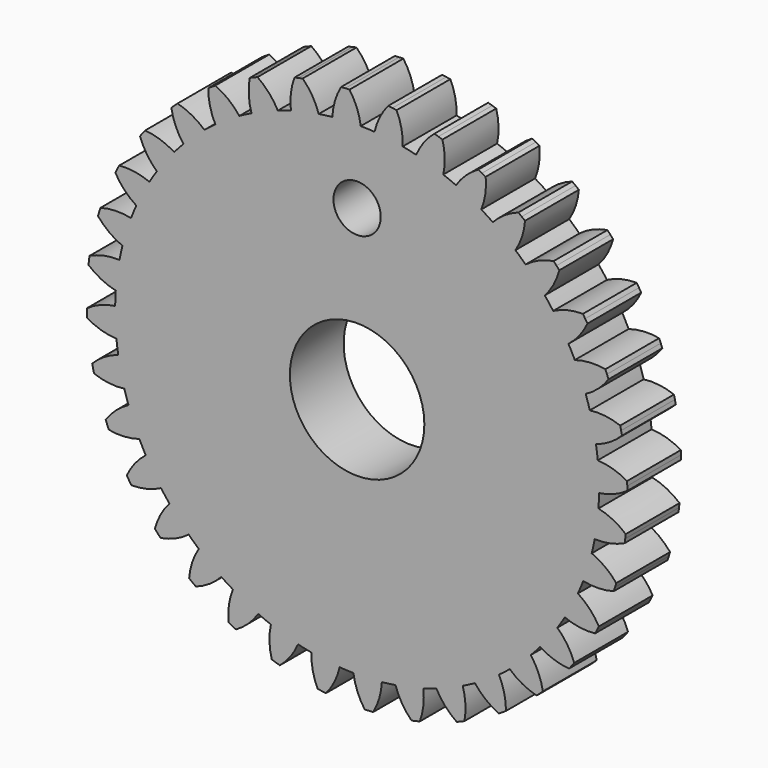
from build123d import *

# Parameters (mm, degrees)
F1_DEPTH = 5
F2_R     = 5
F3_DEPTH = 5.001
F4_R     = 1.757778
F5_DEPTH = 5.001


with BuildPart() as f1:
    # F0 (on Front) → F1 (new body)
    with BuildSketch(Plane.XZ):
        with BuildLine():
            ThreePointArc((1.295607, 17.943286), (0.784713, 17.972878), (0.273183, 17.987926))
            ThreePointArc((0.273183, 17.987926), (-0.017493, 19.09481), (-0.563832, 20.100394))
            ThreePointArc((-0.563832, 20.100394), (-0.720494, 20.095388), (-0.877112, 20.089161))
            ThreePointArc((-0.877112, 20.089161), (-1.033676, 20.081714), (-1.190178, 20.073047))
            ThreePointArc((-1.190178, 20.073047), (-1.646795, 19.023673), (-1.839895, 17.895667))
            ThreePointArc((-1.839895, 17.895667), (-2.348166, 17.836093), (-2.854537, 17.762086))
            ThreePointArc((-2.854537, 17.762086), (-3.333007, 18.801679), (-4.045663, 19.697115))
            ThreePointArc((-4.045663, 19.697115), (-4.199075, 19.664981), (-4.352233, 19.631653))
            ThreePointArc((-4.352233, 19.631653), (-4.505125, 19.597132), (-4.657745, 19.56142))
            ThreePointArc((-4.657745, 19.56142), (-4.925203, 18.448697), (-4.919493, 17.304297))
            ThreePointArc((-4.919493, 17.304297), (-5.409697, 17.157368), (-5.895524, 16.996555))
            ThreePointArc((-5.895524, 16.996555), (-6.547248, 17.937269), (-7.404569, 18.69535))
            ThreePointArc((-7.404569, 18.69535), (-7.55007, 18.637064), (-7.695113, 18.577647))
            ThreePointArc((-7.695113, 18.577647), (-7.839689, 18.5171), (-7.983788, 18.455429))
            ThreePointArc((-7.983788, 18.455429), (-8.053961, 17.313168), (-7.849614, 16.187145))
            ThreePointArc((-7.849614, 16.187145), (-8.306858, 15.957325), (-8.757379, 15.714592))
            ThreePointArc((-8.757379, 15.714592), (-9.562555, 16.527844), (-10.53849, 17.125535))
            ThreePointArc((-10.53849, 17.125535), (-10.67166, 17.04287), (-10.804182, 16.959168))
            ThreePointArc((-10.804182, 16.959168), (-10.936047, 16.874436), (-11.067248, 16.788679))
            ThreePointArc((-11.067248, 16.788679), (-10.938003, 15.651586), (-10.541229, 14.578155))
            ThreePointArc((-10.541229, 14.578155), (-10.951618, 14.272427), (-11.353145, 13.955149))
            ThreePointArc((-11.353145, 13.955149), (-12.287308, 14.616228), (-13.352205, 15.03537))
            ThreePointArc((-13.352205, 15.03537), (-13.468997, 14.930836), (-13.584971, 14.825394))
            ThreePointArc((-13.584971, 14.825394), (-13.700119, 14.719051), (-13.814435, 14.611814))
            ThreePointArc((-13.814435, 14.611814), (-13.4897, 13.514439), (-12.912554, 12.526214))
            ThreePointArc((-12.912554, 12.526214), (-13.263619, 12.153868), (-13.603952, 11.771686))
            ThreePointArc((-13.603952, 11.771686), (-14.638717, 12.260506), (-15.760219, 12.488363))
            ThreePointArc((-15.760219, 12.488363), (-15.857085, 12.365136), (-15.952987, 12.241157))
            ThreePointArc((-15.952987, 12.241157), (-16.04792, 12.116435), (-16.141878, 11.990976))
            ThreePointArc((-16.141878, 11.990976), (-15.631519, 10.966663), (-14.891538, 10.093672))
            ThreePointArc((-14.891538, 10.093672), (-15.172612, 9.66602), (-15.441409, 9.230547))
            ThreePointArc((-15.441409, 9.230547), (-16.545337, 9.532255), (-17.689368, 9.561904))
            ThreePointArc((-17.689368, 9.561904), (-17.763363, 9.423728), (-17.83628, 9.28498))
            ThreePointArc((-17.83628, 9.28498), (-17.908113, 9.145667), (-17.978857, 9.005799))
            ThreePointArc((-17.978857, 9.005799), (-17.298382, 8.08567), (-16.418049, 7.354438))
            ThreePointArc((-16.418049, 7.354438), (-16.620593, 6.884475), (-16.809687, 6.408941))
            ThreePointArc((-16.809687, 6.408941), (-17.949235, 6.514371), (-19.081034, 6.34491))
            ThreePointArc((-19.081034, 6.34491), (-19.129911, 6.195985), (-19.177627, 6.046682))
            ThreePointArc((-19.177627, 6.046682), (-19.224177, 5.897013), (-19.269559, 5.746985))
            ThreePointArc((-19.269559, 5.746985), (-18.439642, 4.958998), (-17.445707, 4.391743))
            ThreePointArc((-17.445707, 4.391743), (-17.563565, 3.893749), (-17.667211, 3.392604))
            ThreePointArc((-17.667211, 3.392604), (-18.807754, 3.298551), (-19.892932, 2.93513))
            ThreePointArc((-19.892932, 2.93513), (-19.915206, 2.77998), (-19.936271, 2.62466))
            ThreePointArc((-19.936271, 2.62466), (-19.956124, 2.469181), (-19.974764, 2.313551))
            ThreePointArc((-19.974764, 2.313551), (-19.020623, 1.681649), (-17.943286, 1.295607))
            ThreePointArc((-17.943286, 1.295607), (-17.972878, 0.784713), (-17.987926, 0.273183))
            ThreePointArc((-17.987926, 0.273183), (-19.09481, -0.017493), (-20.100394, -0.563832))
            ThreePointArc((-20.100394, -0.563832), (-20.095388, -0.720494), (-20.089161, -0.877112))
            ThreePointArc((-20.089161, -0.877112), (-20.081714, -1.033676), (-20.073047, -1.190178))
            ThreePointArc((-20.073047, -1.190178), (-19.023673, -1.646795), (-17.895667, -1.839895))
            ThreePointArc((-17.895667, -1.839895), (-17.836093, -2.348166), (-17.762086, -2.854537))
            ThreePointArc((-17.762086, -2.854537), (-18.801679, -3.333007), (-19.697115, -4.045663))
            ThreePointArc((-19.697115, -4.045663), (-19.664981, -4.199075), (-19.631653, -4.352233))
            ThreePointArc((-19.631653, -4.352233), (-19.597132, -4.505125), (-19.56142, -4.657745))
            ThreePointArc((-19.56142, -4.657745), (-18.448697, -4.925203), (-17.304297, -4.919493))
            ThreePointArc((-17.304297, -4.919493), (-17.157368, -5.409697), (-16.996555, -5.895524))
            ThreePointArc((-16.996555, -5.895524), (-17.937269, -6.547248), (-18.69535, -7.404569))
            ThreePointArc((-18.69535, -7.404569), (-18.637064, -7.55007), (-18.577647, -7.695113))
            ThreePointArc((-18.577647, -7.695113), (-18.5171, -7.839689), (-18.455429, -7.983788))
            ThreePointArc((-18.455429, -7.983788), (-17.313168, -8.053961), (-16.187145, -7.849614))
            ThreePointArc((-16.187145, -7.849614), (-15.957325, -8.306858), (-15.714592, -8.757379))
            ThreePointArc((-15.714592, -8.757379), (-16.527844, -9.562555), (-17.125535, -10.53849))
            ThreePointArc((-17.125535, -10.53849), (-17.04287, -10.67166), (-16.959168, -10.804182))
            ThreePointArc((-16.959168, -10.804182), (-16.874436, -10.936047), (-16.788679, -11.067248))
            ThreePointArc((-16.788679, -11.067248), (-15.651586, -10.938003), (-14.578155, -10.541229))
            ThreePointArc((-14.578155, -10.541229), (-14.272427, -10.951618), (-13.955149, -11.353145))
            ThreePointArc((-13.955149, -11.353145), (-14.616228, -12.287308), (-15.03537, -13.352205))
            ThreePointArc((-15.03537, -13.352205), (-14.930836, -13.468997), (-14.825394, -13.584971))
            ThreePointArc((-14.825394, -13.584971), (-14.719051, -13.700119), (-14.611814, -13.814435))
            ThreePointArc((-14.611814, -13.814435), (-13.514439, -13.4897), (-12.526214, -12.912554))
            ThreePointArc((-12.526214, -12.912554), (-12.153868, -13.263619), (-11.771686, -13.603952))
            ThreePointArc((-11.771686, -13.603952), (-12.260506, -14.638717), (-12.488363, -15.760219))
            ThreePointArc((-12.488363, -15.760219), (-12.365136, -15.857085), (-12.241157, -15.952987))
            ThreePointArc((-12.241157, -15.952987), (-12.116435, -16.04792), (-11.990976, -16.141878))
            ThreePointArc((-11.990976, -16.141878), (-10.966663, -15.631519), (-10.093672, -14.891538))
            ThreePointArc((-10.093672, -14.891538), (-9.66602, -15.172612), (-9.230547, -15.441409))
            ThreePointArc((-9.230547, -15.441409), (-9.532255, -16.545337), (-9.561904, -17.689368))
            ThreePointArc((-9.561904, -17.689368), (-9.423728, -17.763363), (-9.28498, -17.83628))
            ThreePointArc((-9.28498, -17.83628), (-9.145667, -17.908113), (-9.005799, -17.978857))
            ThreePointArc((-9.005799, -17.978857), (-8.08567, -17.298382), (-7.354438, -16.418049))
            ThreePointArc((-7.354438, -16.418049), (-6.884475, -16.620593), (-6.408941, -16.809687))
            ThreePointArc((-6.408941, -16.809687), (-6.514371, -17.949235), (-6.34491, -19.081034))
            ThreePointArc((-6.34491, -19.081034), (-6.195985, -19.129911), (-6.046682, -19.177627))
            ThreePointArc((-6.046682, -19.177627), (-5.897013, -19.224177), (-5.746985, -19.269559))
            ThreePointArc((-5.746985, -19.269559), (-4.958998, -18.439642), (-4.391743, -17.445707))
            ThreePointArc((-4.391743, -17.445707), (-3.893749, -17.563565), (-3.392604, -17.667211))
            ThreePointArc((-3.392604, -17.667211), (-3.298551, -18.807754), (-2.93513, -19.892932))
            ThreePointArc((-2.93513, -19.892932), (-2.77998, -19.915206), (-2.62466, -19.936271))
            ThreePointArc((-2.62466, -19.936271), (-2.469181, -19.956124), (-2.313551, -19.974764))
            ThreePointArc((-2.313551, -19.974764), (-1.681649, -19.020623), (-1.295607, -17.943286))
            ThreePointArc((-1.295607, -17.943286), (-0.784713, -17.972878), (-0.273183, -17.987926))
            ThreePointArc((-0.273183, -17.987926), (0.017493, -19.09481), (0.563832, -20.100394))
            ThreePointArc((0.563832, -20.100394), (0.720494, -20.095388), (0.877112, -20.089161))
            ThreePointArc((0.877112, -20.089161), (1.033676, -20.081714), (1.190178, -20.073047))
            ThreePointArc((1.190178, -20.073047), (1.646795, -19.023673), (1.839895, -17.895667))
            ThreePointArc((1.839895, -17.895667), (2.348166, -17.836093), (2.854537, -17.762086))
            ThreePointArc((2.854537, -17.762086), (3.333007, -18.801679), (4.045663, -19.697115))
            ThreePointArc((4.045663, -19.697115), (4.199075, -19.664981), (4.352233, -19.631653))
            ThreePointArc((4.352233, -19.631653), (4.505125, -19.597132), (4.657745, -19.56142))
            ThreePointArc((4.657745, -19.56142), (4.925203, -18.448697), (4.919493, -17.304297))
            ThreePointArc((4.919493, -17.304297), (5.409697, -17.157368), (5.895524, -16.996555))
            ThreePointArc((5.895524, -16.996555), (6.547248, -17.937269), (7.404569, -18.69535))
            ThreePointArc((7.404569, -18.69535), (7.55007, -18.637064), (7.695113, -18.577647))
            ThreePointArc((7.695113, -18.577647), (7.839689, -18.5171), (7.983788, -18.455429))
            ThreePointArc((7.983788, -18.455429), (8.053961, -17.313168), (7.849614, -16.187145))
            ThreePointArc((7.849614, -16.187145), (8.306858, -15.957325), (8.757379, -15.714592))
            ThreePointArc((8.757379, -15.714592), (9.562555, -16.527844), (10.53849, -17.125535))
            ThreePointArc((10.53849, -17.125535), (10.67166, -17.04287), (10.804182, -16.959168))
            ThreePointArc((10.804182, -16.959168), (10.936047, -16.874436), (11.067248, -16.788679))
            ThreePointArc((11.067248, -16.788679), (10.938003, -15.651586), (10.541229, -14.578155))
            ThreePointArc((10.541229, -14.578155), (10.951618, -14.272427), (11.353145, -13.955149))
            ThreePointArc((11.353145, -13.955149), (12.287308, -14.616228), (13.352205, -15.03537))
            ThreePointArc((13.352205, -15.03537), (13.468997, -14.930836), (13.584971, -14.825394))
            ThreePointArc((13.584971, -14.825394), (13.700119, -14.719051), (13.814435, -14.611814))
            ThreePointArc((13.814435, -14.611814), (13.4897, -13.514439), (12.912554, -12.526214))
            ThreePointArc((12.912554, -12.526214), (13.263619, -12.153868), (13.603952, -11.771686))
            ThreePointArc((13.603952, -11.771686), (14.638717, -12.260506), (15.760219, -12.488363))
            ThreePointArc((15.760219, -12.488363), (15.857085, -12.365136), (15.952987, -12.241157))
            ThreePointArc((15.952987, -12.241157), (16.04792, -12.116435), (16.141878, -11.990976))
            ThreePointArc((16.141878, -11.990976), (15.631519, -10.966663), (14.891538, -10.093672))
            ThreePointArc((14.891538, -10.093672), (15.172612, -9.66602), (15.441409, -9.230547))
            ThreePointArc((15.441409, -9.230547), (16.545337, -9.532255), (17.689368, -9.561904))
            ThreePointArc((17.689368, -9.561904), (17.763363, -9.423728), (17.83628, -9.28498))
            ThreePointArc((17.83628, -9.28498), (17.908113, -9.145667), (17.978857, -9.005799))
            ThreePointArc((17.978857, -9.005799), (17.298382, -8.08567), (16.418049, -7.354438))
            ThreePointArc((16.418049, -7.354438), (16.620593, -6.884475), (16.809687, -6.408941))
            ThreePointArc((16.809687, -6.408941), (17.949235, -6.514371), (19.081034, -6.34491))
            ThreePointArc((19.081034, -6.34491), (19.129911, -6.195985), (19.177627, -6.046682))
            ThreePointArc((19.177627, -6.046682), (19.224177, -5.897013), (19.269559, -5.746985))
            ThreePointArc((19.269559, -5.746985), (18.439642, -4.958998), (17.445707, -4.391743))
            ThreePointArc((17.445707, -4.391743), (17.563565, -3.893749), (17.667211, -3.392604))
            ThreePointArc((17.667211, -3.392604), (18.807754, -3.298551), (19.892932, -2.93513))
            ThreePointArc((19.892932, -2.93513), (19.915206, -2.77998), (19.936271, -2.62466))
            ThreePointArc((19.936271, -2.62466), (19.956124, -2.469181), (19.974764, -2.313551))
            ThreePointArc((19.974764, -2.313551), (19.020623, -1.681649), (17.943286, -1.295607))
            ThreePointArc((17.943286, -1.295607), (17.972878, -0.784713), (17.987926, -0.273183))
            ThreePointArc((17.987926, -0.273183), (19.09481, 0.017493), (20.100394, 0.563832))
            ThreePointArc((20.100394, 0.563832), (20.095388, 0.720494), (20.089161, 0.877112))
            ThreePointArc((20.089161, 0.877112), (20.081714, 1.033676), (20.073047, 1.190178))
            ThreePointArc((20.073047, 1.190178), (19.023673, 1.646795), (17.895667, 1.839895))
            ThreePointArc((17.895667, 1.839895), (17.836093, 2.348166), (17.762086, 2.854537))
            ThreePointArc((17.762086, 2.854537), (18.801679, 3.333007), (19.697115, 4.045663))
            ThreePointArc((19.697115, 4.045663), (19.664981, 4.199075), (19.631653, 4.352233))
            ThreePointArc((19.631653, 4.352233), (19.597132, 4.505125), (19.56142, 4.657745))
            ThreePointArc((19.56142, 4.657745), (18.448697, 4.925203), (17.304297, 4.919493))
            ThreePointArc((17.304297, 4.919493), (17.157368, 5.409697), (16.996555, 5.895524))
            ThreePointArc((16.996555, 5.895524), (17.937269, 6.547248), (18.69535, 7.404569))
            ThreePointArc((18.69535, 7.404569), (18.637064, 7.55007), (18.577647, 7.695113))
            ThreePointArc((18.577647, 7.695113), (18.5171, 7.839689), (18.455429, 7.983788))
            ThreePointArc((18.455429, 7.983788), (17.313168, 8.053961), (16.187145, 7.849614))
            ThreePointArc((16.187145, 7.849614), (15.957325, 8.306858), (15.714592, 8.757379))
            ThreePointArc((15.714592, 8.757379), (16.527844, 9.562555), (17.125535, 10.53849))
            ThreePointArc((17.125535, 10.53849), (17.04287, 10.67166), (16.959168, 10.804182))
            ThreePointArc((16.959168, 10.804182), (16.874436, 10.936047), (16.788679, 11.067248))
            ThreePointArc((16.788679, 11.067248), (15.651586, 10.938003), (14.578155, 10.541229))
            ThreePointArc((14.578155, 10.541229), (14.272427, 10.951618), (13.955149, 11.353145))
            ThreePointArc((13.955149, 11.353145), (14.616228, 12.287308), (15.03537, 13.352205))
            ThreePointArc((15.03537, 13.352205), (14.930836, 13.468997), (14.825394, 13.584971))
            ThreePointArc((14.825394, 13.584971), (14.719051, 13.700119), (14.611814, 13.814435))
            ThreePointArc((14.611814, 13.814435), (13.514439, 13.4897), (12.526214, 12.912554))
            ThreePointArc((12.526214, 12.912554), (12.153868, 13.263619), (11.771686, 13.603952))
            ThreePointArc((11.771686, 13.603952), (12.260506, 14.638717), (12.488363, 15.760219))
            ThreePointArc((12.488363, 15.760219), (12.365136, 15.857085), (12.241157, 15.952987))
            ThreePointArc((12.241157, 15.952987), (12.116435, 16.04792), (11.990976, 16.141878))
            ThreePointArc((11.990976, 16.141878), (10.966663, 15.631519), (10.093672, 14.891538))
            ThreePointArc((10.093672, 14.891538), (9.66602, 15.172612), (9.230547, 15.441409))
            ThreePointArc((9.230547, 15.441409), (9.532255, 16.545337), (9.561904, 17.689368))
            ThreePointArc((9.561904, 17.689368), (9.423728, 17.763363), (9.28498, 17.83628))
            ThreePointArc((9.28498, 17.83628), (9.145667, 17.908113), (9.005799, 17.978857))
            ThreePointArc((9.005799, 17.978857), (8.08567, 17.298382), (7.354438, 16.418049))
            ThreePointArc((7.354438, 16.418049), (6.884475, 16.620593), (6.408941, 16.809687))
            ThreePointArc((6.408941, 16.809687), (6.514371, 17.949235), (6.34491, 19.081034))
            ThreePointArc((6.34491, 19.081034), (6.195985, 19.129911), (6.046682, 19.177627))
            ThreePointArc((6.046682, 19.177627), (5.897013, 19.224177), (5.746985, 19.269559))
            ThreePointArc((5.746985, 19.269559), (4.958998, 18.439642), (4.391743, 17.445707))
            ThreePointArc((4.391743, 17.445707), (3.893749, 17.563565), (3.392604, 17.667211))
            ThreePointArc((3.392604, 17.667211), (3.298551, 18.807754), (2.93513, 19.892932))
            ThreePointArc((2.93513, 19.892932), (2.77998, 19.915206), (2.62466, 19.936271))
            ThreePointArc((2.62466, 19.936271), (2.469181, 19.956124), (2.313551, 19.974764))
            ThreePointArc((2.313551, 19.974764), (1.681649, 19.020623), (1.295607, 17.943286))
        make_face()
    extrude(amount=F1_DEPTH)

    # F2 (on face) → F3 (cut, through all)
    with BuildSketch(Plane.XZ.offset(5)):
        Circle(F2_R)
    extrude(amount=-F3_DEPTH, mode=Mode.SUBTRACT)

    # F4 (on face) → F5 (cut, through all)
    with BuildSketch(Plane.XZ.offset(5)):
        with Locations((0, 12.526214)):
            Circle(F4_R)
    extrude(amount=-F5_DEPTH, mode=Mode.SUBTRACT)


solid = f1.part
